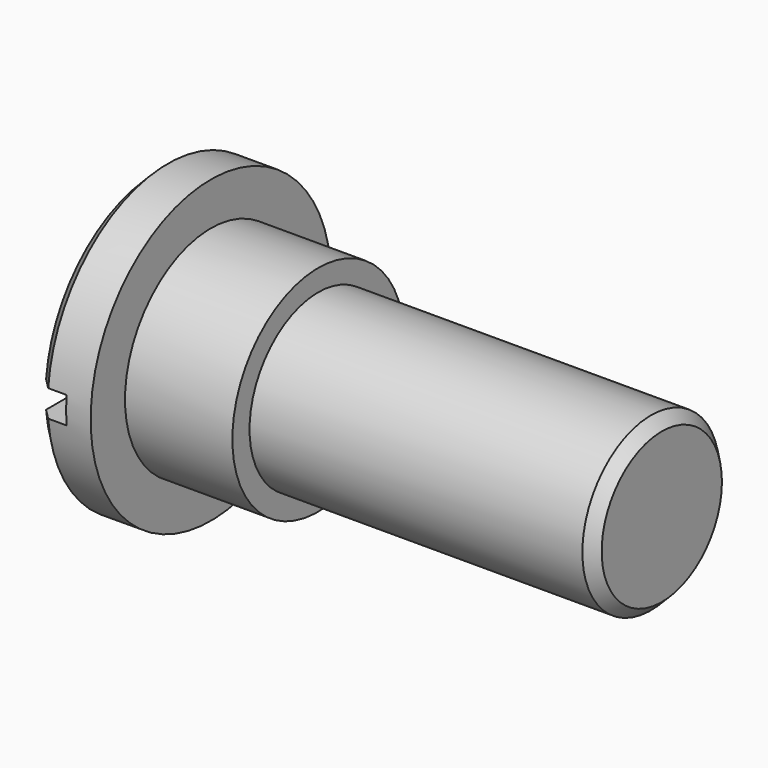
from build123d import *

# Parameters (mm, degrees)
F0_R          = 8
F1_DEPTH      = 42
F1_DEPTH_BACK = 5
F0_R_2        = 10
F2_DEPTH      = 10
F2_DEPTH_BACK = 5
F0_R_3        = 14
F3_DEPTH      = 5
F4_SIZE       = 1
F5_W          = 58
F5_H          = 2.5
F6_DEPTH      = 25
F6_DEPTH_BACK = 25


with BuildPart() as f1:
    # F0 (on Right) → F1 (new body, two sides)
    with BuildSketch(Plane.YZ) as f1_sk:
        Circle(F0_R)
    extrude(amount=F1_DEPTH)
    extrude(f1_sk.sketch, amount=-F1_DEPTH_BACK)

    # F0 (on Right) → F2 (join, two sides)
    with BuildSketch(Plane.YZ) as f2_sk:
        Circle(F0_R_2)
        Circle(F0_R, mode=Mode.SUBTRACT)
    extrude(amount=F2_DEPTH)
    extrude(f2_sk.sketch, amount=-F2_DEPTH_BACK)

    # F0 (on Right) → F3 (join)
    with BuildSketch(Plane.YZ):
        Circle(F0_R_3)
        Circle(F0_R_2, mode=Mode.SUBTRACT)
    extrude(amount=-F3_DEPTH)

    # F4
    f4_edges = [f1.edges().sort_by_distance(p)[0] for p in [
        (-5, -14, 0),
        (42, -8, 0),
    ]]
    chamfer(f4_edges, length=F4_SIZE)

    # F5 (on Front) → F6 (cut, two sides)
    with BuildSketch(Plane.XZ) as f6_sk:
        with Locations((-31.278737, 0)):
            Rectangle(F5_W, F5_H)
    extrude(amount=F6_DEPTH, mode=Mode.SUBTRACT)
    extrude(f6_sk.sketch, amount=-F6_DEPTH_BACK, mode=Mode.SUBTRACT)


solid = f1.part
